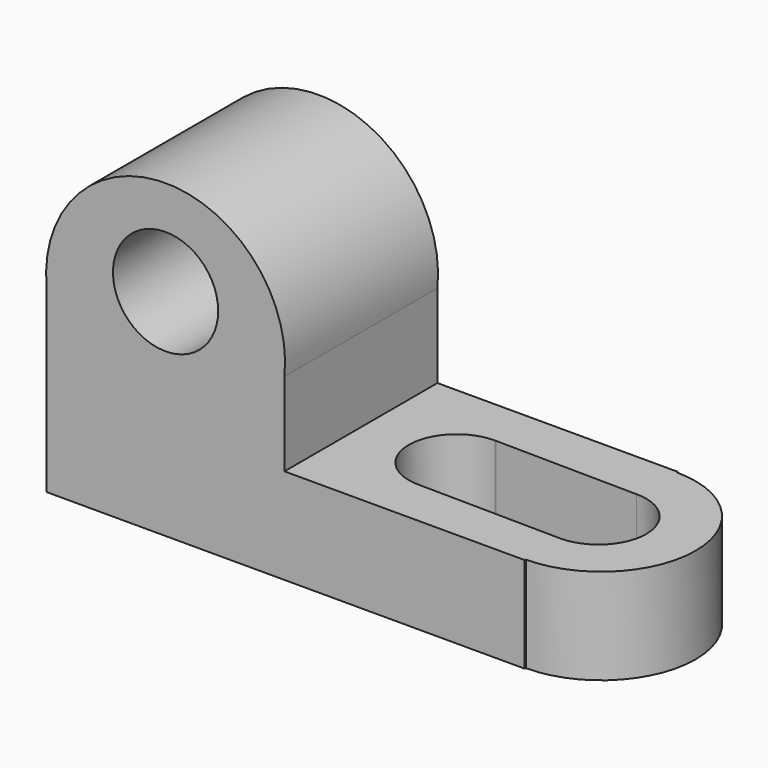
from build123d import *

# Parameters (mm, degrees)
F0_W      = 63.5
F0_H      = 25.4
F1_DEPTH  = 12.7
F2_R      = 12.5320537087
F3_DEPTH  = 12.7
F5_DEPTH  = 12.7
F6_W      = 31.5867842689
F6_H      = 25.4
F7_DEPTH  = 12.7
F8_R      = 15.875
F9_DEPTH  = 25.4
F10_R     = 6.985
F11_DEPTH = 25.4


with BuildPart() as f1:
    # F0 (on Top) → F1 (new body)
    with BuildSketch(Plane.XY):
        with Locations((31.75, 12.7)):
            Rectangle(F0_W, F0_H)
    extrude(amount=F1_DEPTH)

    # F2 (on face) → F3 (join)
    with BuildSketch(Plane.XY.offset(12.7)):
        with Locations((63.5, 12.7)):
            Circle(F2_R)
    extrude(amount=-F3_DEPTH)

    # F4 (on face) → F5 (cut)
    with BuildSketch(Plane.XY.offset(12.7)):
        with BuildLine():
            ThreePointArc((63.5, 6.0999503105), (67.882802657, 8.0165452354), (69.6845581875, 12.4477947483))
            ThreePointArc((69.6845581875, 12.4477947483), (67.824686248, 16.9379228088), (63.3345581875, 18.7977947483))
            Line((63.3345581875, 18.7977947483), (63.5, 6.0999503105))
        make_face()
        with BuildLine():
            Line((63.5, 6.0999503105), (63.3345581875, 18.7977947483))
            ThreePointArc((63.3345581875, 18.7977947483), (56.9867066583, 12.6129642476), (63.0043309564, 6.1063871778))
            Line((63.0043309564, 6.1063871778), (63.5, 6.0999503105))
        make_face()
        with BuildLine():
            ThreePointArc((63.0043309564, 6.1063871778), (56.9867066583, 12.6129642476), (63.3345581875, 18.7977947483))
            Line((63.3345581875, 18.7977947483), (44.4543498473, 19.0477740161))
            ThreePointArc((44.4543498473, 19.0477740161), (48.8354076377, 17.1302891933), (50.6362277486, 12.7))
            ThreePointArc((50.6362277486, 12.7), (48.7763558091, 8.2098719395), (44.2862277486, 6.35))
            Line((44.2862277486, 6.35), (44.2862277486, 6.3494645845))
            Line((44.2862277486, 6.3494645845), (63.0043309564, 6.1063871778))
        make_face()
        with BuildLine():
            ThreePointArc((63.0043309564, 6.1063871778), (63.2521026428, 6.0983301187), (63.5, 6.0999503105))
            Line((63.5, 6.0999503105), (63.0043309564, 6.1063871778))
        make_face()
        with BuildLine():
            Line((44.2862277486, 19.05), (44.4543498473, 19.0477740161))
            ThreePointArc((44.4543498473, 19.0477740161), (44.3702961658, 19.0494434796), (44.2862277486, 19.05))
        make_face()
        with BuildLine():
            ThreePointArc((50.6362277486, 12.7), (48.8354076377, 17.1302891933), (44.4543498473, 19.0477740161))
            Line((44.4543498473, 19.0477740161), (44.2862277486, 19.05))
            Line((44.2862277486, 19.05), (44.2862277486, 6.35))
            ThreePointArc((44.2862277486, 6.35), (48.7763558091, 8.2098719395), (50.6362277486, 12.7))
        make_face()
        with BuildLine():
            Line((44.2862277486, 6.35), (44.2862277486, 19.05))
            ThreePointArc((44.2862277486, 19.05), (37.9362277486, 12.7), (44.2862277486, 6.35))
        make_face()
    extrude(amount=-F5_DEPTH, mode=Mode.SUBTRACT)

    # F6 (on face) → F7 (join)
    with BuildSketch(Plane.XY.offset(12.7)):
        with Locations((15.7933921345, 12.7)):
            Rectangle(F6_W, F6_H)
    extrude(amount=F7_DEPTH)

    # F8 (on face) → F9 (join)
    with BuildSketch(Plane.XZ):
        with Locations((15.7933921345, 25.4)):
            Circle(F8_R)
    extrude(amount=-F9_DEPTH)

    # F10 (on face) → F11 (cut)
    with BuildSketch(Plane.XZ):
        with Locations((15.7933921345, 28.575)):
            Circle(F10_R)
    extrude(amount=-F11_DEPTH, mode=Mode.SUBTRACT)


solid = f1.part
